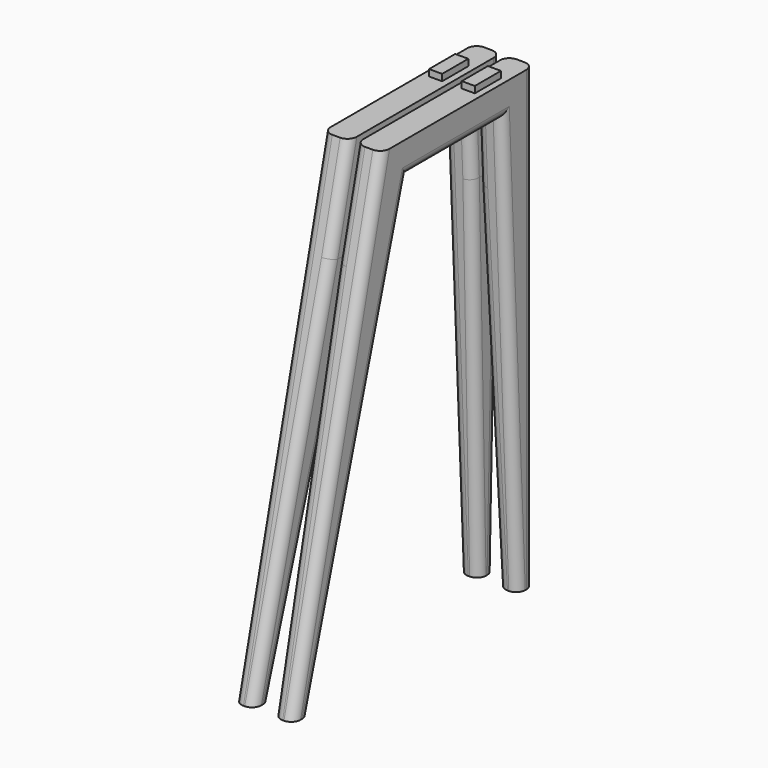
from build123d import *

# Parameters (mm, degrees)
F2_DEPTH  = 40
F3_W      = 20
F3_H      = 50
F4_DEPTH  = 10
F7_DEPTH  = 40
F8_W      = 20
F8_H      = 50
F9_DEPTH  = 10
F11_DEPTH = 560.001
F13_DEPTH = 560.001
F14_R     = 14
F14_2_R   = 14


with BuildPart() as f2:
    # F1 (on Right) → F2 (new body)
    with BuildSketch(Plane.YZ):
        Polygon((-100, 0), (-390, 0), (-560, -700), (-528.7953392229, -700), (-340.3988166967, -50), (-160, -50), (-130, -700), (-120, -700), (-100, -700), align=None)
    extrude(amount=F2_DEPTH)

    # F3 (on Top) → F4 (join)
    with BuildSketch(Plane.XY):
        with Locations((20, -175)):
            Rectangle(F3_W, F3_H)
    extrude(amount=F4_DEPTH)


with BuildPart() as f7:
    # F6 (on offset) → F7 (new body)
    with BuildSketch(Plane.YZ.offset(-10)):
        Polygon((-390, 0), (-560, -700), (-545.5930572292, -700), (-543.3715358309, -700), (-528.7953392229, -700), (-340.3988166967, -50), (-160, -50), (-130, -700), (-115.9850966898, -700), (-114, -700), (-100, -700), (-100, 0), align=None)
    extrude(amount=-F7_DEPTH)

    # F8 (on Top) → F9 (join)
    with BuildSketch(Plane.XY):
        with Locations((-30, -175)):
            Rectangle(F8_W, F8_H)
    extrude(amount=F9_DEPTH)


with BuildPart() as f11_tool:
    # F10 (on Front) → F11 (new body, through all)
    with BuildSketch(Plane.XZ):
        Polygon((0, -700), (10, -700), (0, -150), align=None)
        Polygon((-10, -150), (-20, -700), (-10, -700), align=None)
    extrude(amount=F11_DEPTH)


with BuildPart() as f2_1:
    add(f2.part)

    # F11: cut by f11_tool
    add(f11_tool.part, mode=Mode.SUBTRACT)

    # F12 (on Front) → F13 (cut, through all)
    with BuildSketch(Plane.XZ):
        Polygon((0, -150), (0, -700), (10, -700), align=None)
    extrude(amount=F13_DEPTH, mode=Mode.SUBTRACT)

    # F14
    f14_edges = [f2_1.edges().sort_by_distance(p)[0] for p in [
        (40, -434.597078, -375),
        (40, -250.199408, -50),
        (40, -145, -375),
        (40, -475, -350),
        (40, -100, -350),
        (5, -100, -425),
        (0, -100, -75),
        (0, -354.890857, -100),
        (5, -449.089118, -425),
        (0, -250.199408, -50),
        (0, -157.692308, -100),
        (5, -142.692308, -425),
        (0, -408.214286, -75),
        (5, -493.214286, -425),
    ]]
    fillet(f14_edges, radius=F14_R)


with BuildPart() as f7_1:
    add(f7.part)

    # F11: cut by f11_tool
    add(f11_tool.part, mode=Mode.SUBTRACT)

    # F14#2
    f14_2_edges = [f7_1.edges().sort_by_distance(p)[0] for p in [
        (-15, -449.089118, -425),
        (-10, -354.890857, -100),
        (-10, -250.199408, -50),
        (-10, -100, -75),
        (-15, -100, -425),
        (-50, -100, -350),
        (-50, -145, -375),
        (-50, -250.199408, -50),
        (-50, -434.597078, -375),
        (-10, -157.692308, -100),
        (-15, -142.692308, -425),
        (-10, -408.214286, -75),
        (-15, -493.214286, -425),
        (-50, -475, -350),
    ]]
    fillet(f14_2_edges, radius=F14_2_R)


solid = Compound([f2_1.part, f7_1.part])
